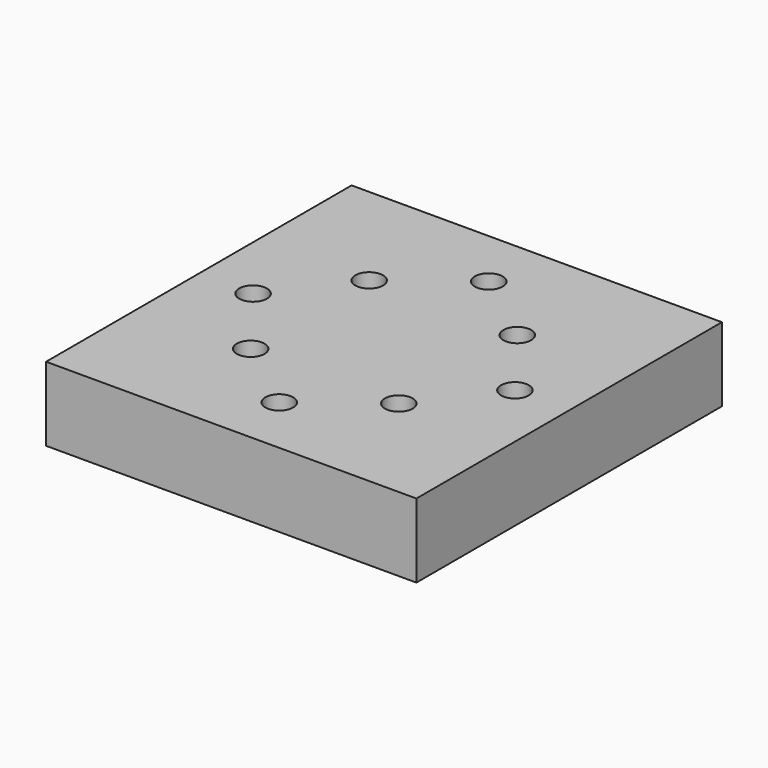
from build123d import *

# Parameters (mm, degrees)
F0_W     = 127
F0_H     = 130.96748
F0_R     = 4.7625
F1_DEPTH = 25.4


with BuildPart() as f1:
    # F0 (on Top) → F1 (new body)
    with BuildSketch(Plane.XY):
        with Locations((63.5, 65.48374)):
            Rectangle(F0_W, F0_H)
        with Locations((38.1, 40.08374)):
            Circle(F0_R, mode=Mode.SUBTRACT)
        with Locations((63.5, 20.582459)):
            Circle(F0_R, mode=Mode.SUBTRACT)
        with Locations((88.9, 40.08374)):
            Circle(F0_R, mode=Mode.SUBTRACT)
        with Locations((18.598719, 65.48374)):
            Circle(F0_R, mode=Mode.SUBTRACT)
        with Locations((38.1, 90.88374)):
            Circle(F0_R, mode=Mode.SUBTRACT)
        with Locations((88.9, 90.88374)):
            Circle(F0_R, mode=Mode.SUBTRACT)
        with Locations((108.401281, 65.48374)):
            Circle(F0_R, mode=Mode.SUBTRACT)
        with Locations((63.5, 110.385021)):
            Circle(F0_R, mode=Mode.SUBTRACT)
    extrude(amount=-F1_DEPTH)


solid = f1.part
